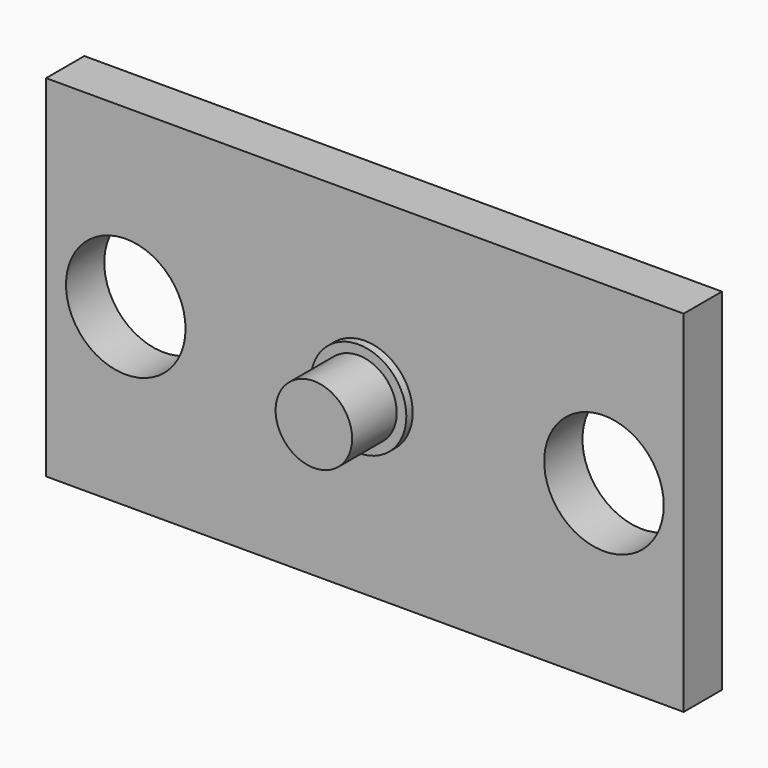
from build123d import *

# Parameters (mm, degrees)
F0_W     = 40
F0_H     = 22
F1_DEPTH = 3
F2_R     = 3
F3_DEPTH = 0.5
F4_R     = 2.4
F5_DEPTH = 3.5
F6_R     = 3.75
F7_DEPTH = 25


with BuildPart() as f1:
    # F0 (on Front) → F1 (new body)
    with BuildSketch(Plane.XZ):
        with Locations((20, 11)):
            Rectangle(F0_W, F0_H)
    extrude(amount=F1_DEPTH)

    # F2 (on face) → F3 (join)
    with BuildSketch(Plane.XZ.offset(3)):
        with Locations((20, 11)):
            Circle(F2_R)
    extrude(amount=F3_DEPTH)

    # F4 (on face) → F5 (join)
    with BuildSketch(Plane.XZ.offset(3.5)):
        with Locations((20, 11)):
            Circle(F4_R)
    extrude(amount=F5_DEPTH)

    # F6 (on face) → F7 (cut)
    with BuildSketch(Plane.XZ.offset(3)):
        with Locations((5, 11)):
            Circle(F6_R)
        with Locations((35, 11)):
            Circle(F6_R)
    extrude(amount=-F7_DEPTH, mode=Mode.SUBTRACT)


solid = f1.part
